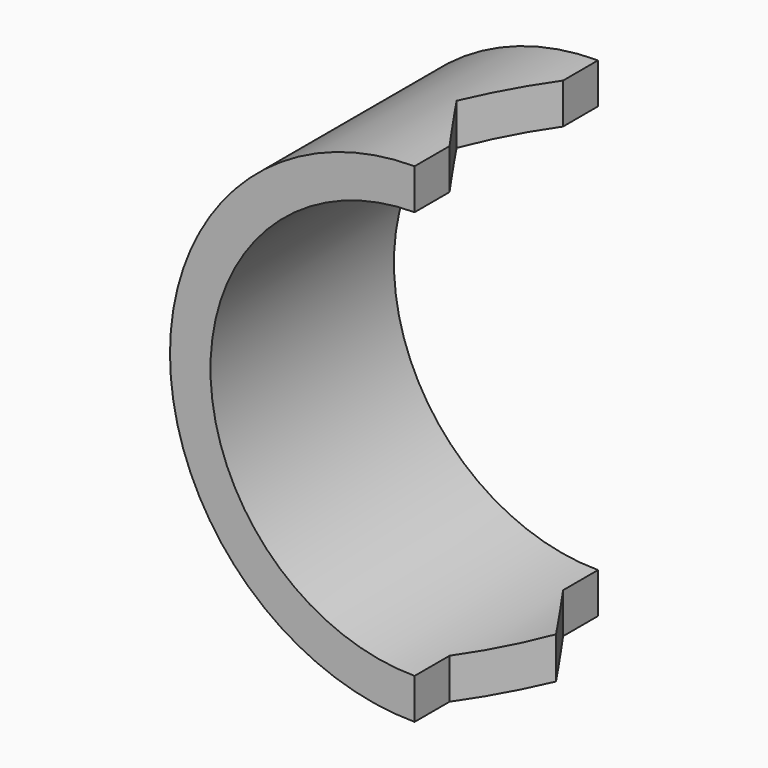
from build123d import *

# Parameters (mm, degrees)
F0_R     = 16
F0_R_2   = 13.35
F1_DEPTH = 15
F3_DEPTH = 25
F5_DEPTH = 25


with BuildPart() as f1:
    # F0 (on Front) → F1 (new body)
    with BuildSketch(Plane.XZ):
        Circle(F0_R)
        Circle(F0_R_2, mode=Mode.SUBTRACT)
    extrude(amount=-F1_DEPTH)

    # F2 (on Top) → F3 (cut)
    with BuildSketch(Plane.XY):
        Polygon((16, 0), (16, 15), (0, 15), (0, 12.141481), (3.25, 7.5), (0, 2.858519), (0, 0), align=None)
    extrude(amount=-F3_DEPTH, mode=Mode.SUBTRACT)

    # F4 (on Top) → F5 (cut)
    with BuildSketch(Plane.XY):
        Polygon((16, 0), (16, 15), (0, 15), (0, 12.141481), (-3.25, 7.5), (0, 2.858519), (0, 0), align=None)
    extrude(amount=F5_DEPTH, mode=Mode.SUBTRACT)


solid = f1.part
